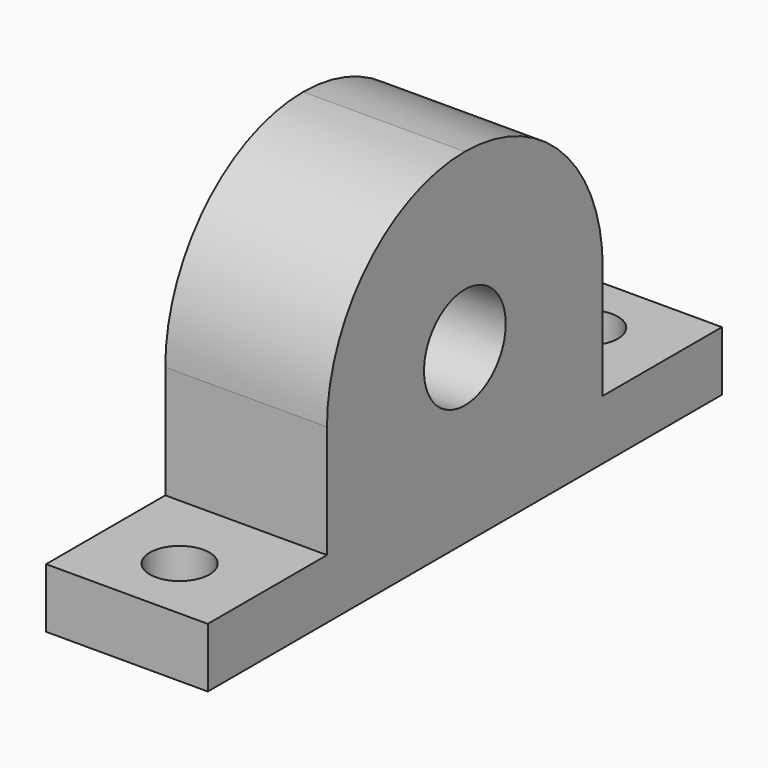
from build123d import *

# Parameters (mm, degrees)
F0_W      = 119.8626
F0_H      = 64.2874
F1_DEPTH  = 30.1625
F2_R      = 9.525
F3_DEPTH  = 30.1635
F7_DEPTH  = 30.1635
F8_DEPTH  = 30.1635
F9_R      = 5.55625
F10_DEPTH = 32.1447


with BuildPart() as f1:
    # F0 (on Right) → F1 (new body)
    with BuildSketch(Plane.YZ):
        Rectangle(F0_W, F0_H)
    extrude(amount=F1_DEPTH)

    # F2 (on face) → F3 (cut, through all)
    with BuildSketch(Plane.YZ.offset(30.1625)):
        Circle(F2_R)
    extrude(amount=-F3_DEPTH, mode=Mode.SUBTRACT)

    # F5 (on face) → F7 (cut, through all)
    with BuildSketch(Plane.YZ.offset(30.1625)):
        with BuildLine():
            ThreePointArc((-32.1437, 0), (-22.72902828, 22.7290282049), (-1.062e-07, 32.1437))
            Line((-1.062e-07, 32.1437), (-59.9313, 32.1437))
            Line((-59.9313, 32.1437), (-59.9313, -21.0312))
            Line((-59.9313, -21.0312), (-32.1437, -21.0312))
            Line((-32.1437, -21.0312), (-32.1437, 0))
        make_face()
    extrude(amount=-F7_DEPTH, mode=Mode.SUBTRACT)

    # F6 (on face) → F8 (cut, through all)
    with BuildSketch(Plane.YZ.offset(30.1625)):
        with BuildLine():
            Line((59.9313, 32.1437), (-1.062e-07, 32.1437))
            ThreePointArc((-1.062e-07, 32.1437), (22.7290282049, 22.72902828), (32.1437, 0))
            Line((32.1437, 0), (32.1437, -21.0312))
            Line((32.1437, -21.0312), (59.9313, -21.0312))
            Line((59.9313, -21.0312), (59.9313, 32.1437))
        make_face()
    extrude(amount=-F8_DEPTH, mode=Mode.SUBTRACT)

    # F9 (on Top) → F10 (cut, through all)
    with BuildSketch(Plane.XY):
        with Locations((15.0622, -47.625)):
            Circle(F9_R)
        with Locations((15.0622, 47.625)):
            Circle(F9_R)
    extrude(amount=-F10_DEPTH, mode=Mode.SUBTRACT)


solid = f1.part
